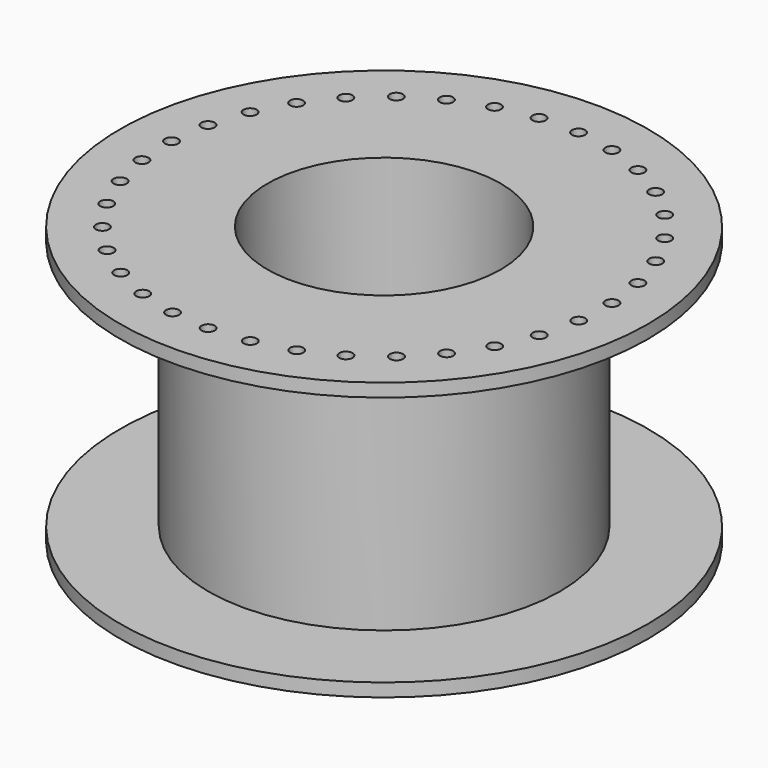
from build123d import *

# Parameters (mm, degrees)
F0_R     = 60
F1_DEPTH = 3
F2_R     = 40
F3_DEPTH = 57
F4_R     = 60
F4_R_2   = 40
F5_DEPTH = 3
F6_R     = 26.5
F7_DEPTH = 63
F8_R     = 1.5
F9_DEPTH = 25


with BuildPart() as f1:
    # F0 (on Top) → F1 (new body)
    with BuildSketch(Plane.XY):
        Circle(F0_R)
    extrude(amount=F1_DEPTH)

    # F2 (on face) → F3 (join)
    with BuildSketch(Plane.XY.offset(3)):
        Circle(F2_R)
    extrude(amount=F3_DEPTH)

    # F4 (on face) → F5 (join)
    with BuildSketch(Plane.XY.offset(60)):
        Circle(F4_R)
        Circle(F4_R_2, mode=Mode.SUBTRACT)
        Circle(F4_R_2)
    extrude(amount=F5_DEPTH)

    # F6 (on face) → F7 (cut)
    with BuildSketch(Plane.XY.offset(63)):
        Circle(F6_R)
    extrude(amount=-F7_DEPTH, mode=Mode.SUBTRACT)

    # F8 (on face) → F9 (cut)
    with BuildSketch(Plane.XY.offset(63)):
        with Locations((-49.5205215438, -6.9078177476)):
            Circle(F8_R)
        with Locations((-49.9578443444, 2.0527514366)):
            Circle(F8_R)
        with Locations((-48.7868632446, 10.9472359411)):
            Circle(F8_R)
        with Locations((-47.4889736721, -15.6460020316)):
            Circle(F8_R)
        with Locations((-43.928602798, -23.8804911217)):
            Circle(F8_R)
        with Locations((-38.9540287263, -31.3461902947)):
            Circle(F8_R)
        with Locations((-32.7253990171, -37.8027546506)):
            Circle(F8_R)
        with Locations((-25.4432333202, -43.0423265892)):
            Circle(F8_R)
        with Locations((-17.341968002, -46.8962274156)):
            Circle(F8_R)
        with Locations((-8.6824088833, -49.2403876506)):
            Circle(F8_R)
        with Locations((0, -50)):
            Circle(F8_R)
        with Locations((8.9350601107, -49.1951694866)):
            Circle(F8_R)
        with Locations((17.5824718607, -46.8065880328)):
            Circle(F8_R)
        with Locations((25.6638472166, -42.9111517679)):
            Circle(F8_R)
        with Locations((32.9190206792, -37.6342673307)):
            Circle(F8_R)
        with Locations((44.0506097143, -23.6546778418)):
            Circle(F8_R)
        with Locations((47.568663586, -15.4020207974)):
            Circle(F8_R)
        with Locations((49.5553289803, -6.6535231008)):
            Circle(F8_R)
        with Locations((39.1144248494, -31.1458146258)):
            Circle(F8_R)
        with Locations((49.9466487401, 2.3091729323)):
            Circle(F8_R)
        with Locations((48.7300250221, 11.1975292519)):
            Circle(F8_R)
        with Locations((45.9446248618, 19.7254010429)):
            Circle(F8_R)
        with Locations((41.6801192611, 27.618248648)):
            Circle(F8_R)
        with Locations((36.073796389, 34.6219758836)):
            Circle(F8_R)
        with Locations((21.5950281924, 45.0960614396)):
            Circle(F8_R)
        with Locations((29.3061418343, 40.5111102142)):
            Circle(F8_R)
        with Locations((13.1887010456, 48.2292252139)):
            Circle(F8_R)
        with Locations((-13.4361023015, 48.1608882284)):
            Circle(F8_R)
        with Locations((-4.6134179732, 49.7867088148)):
            Circle(F8_R)
        with Locations((4.3577871374, 49.8097349046)):
            Circle(F8_R)
        with Locations((-29.513711345, 40.3601392793)):
            Circle(F8_R)
        with Locations((-21.8262352253, 44.9846135461)):
            Circle(F8_R)
        with Locations((-36.2510460467, 34.4363421478)):
            Circle(F8_R)
        with Locations((-41.8213428283, 27.4039282592)):
            Circle(F8_R)
        with Locations((-46.0452758972, 19.4892936646)):
            Circle(F8_R)
    extrude(amount=-F9_DEPTH, mode=Mode.SUBTRACT)


solid = f1.part
